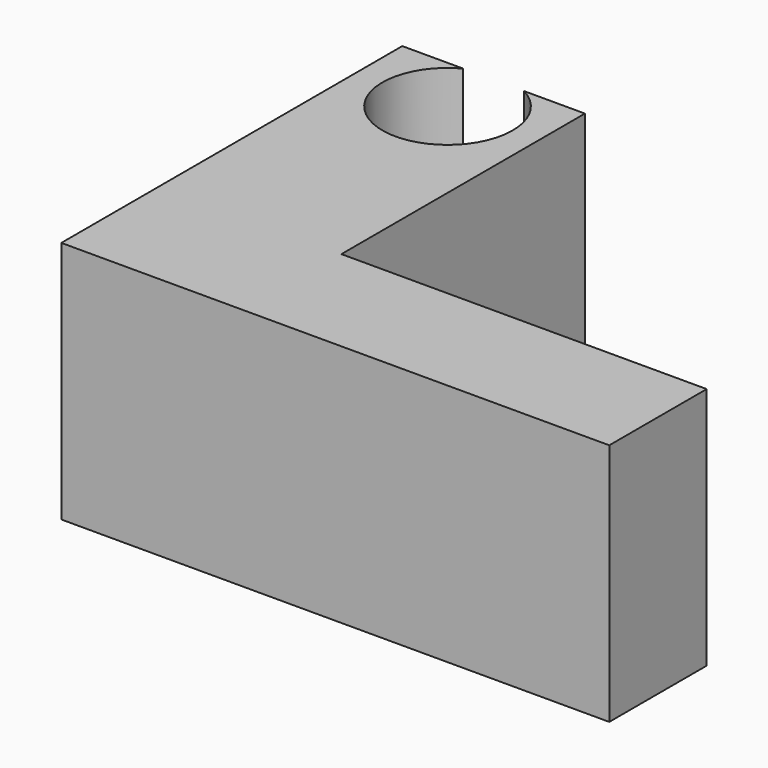
from build123d import *

# Parameters (mm, degrees)
F1_DEPTH = 25.4


with BuildPart() as f1:
    # F0 (on Top) → F1 (new body)
    with BuildSketch(Plane.XY):
        with BuildLine():
            Line((0, 44.45), (0, 0))
            Line((0, 0), (57.15, 0))
            Line((57.15, 0), (57.15, 12.7))
            Line((57.15, 12.7), (19.05, 12.7))
            Line((19.05, 12.7), (19.05, 44.45))
            Line((19.05, 44.45), (12.7, 44.45))
            ThreePointArc((12.7, 44.45), (9.525, 31.65739), (6.35, 44.45))
            Line((6.35, 44.45), (0, 44.45))
        make_face()
    extrude(amount=F1_DEPTH)


solid = f1.part
